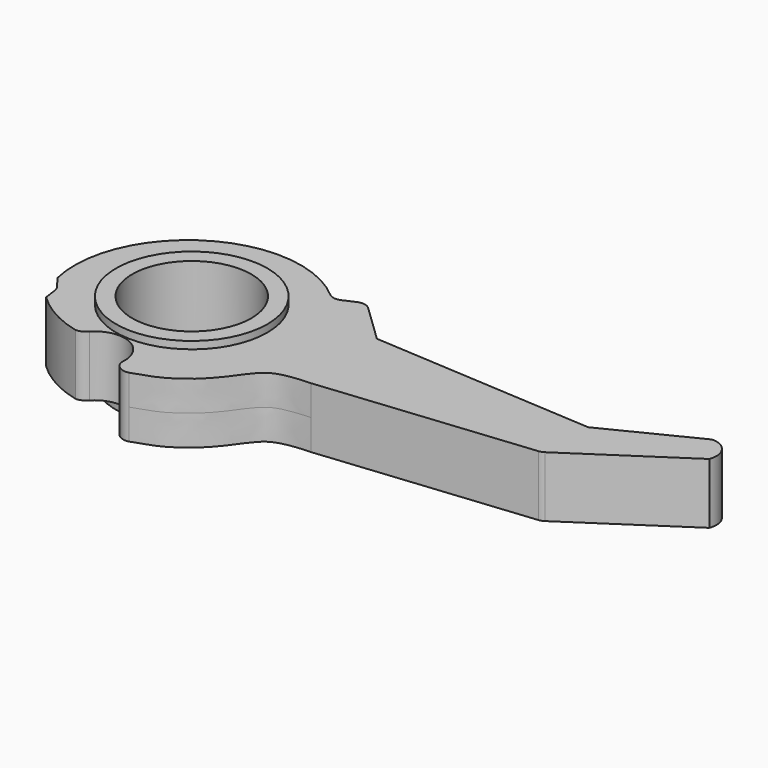
from build123d import *

# Parameters (mm, degrees)
F0_R     = 7.9
F1_DEPTH = 4.02
F2_R     = 10.03
F2_R_2   = 7.9
F3_DEPTH = 5
F4_R     = 1.524


with BuildPart() as f1:
    # F0 (on Top) → F1 (new body, symmetric)
    with BuildSketch(Plane.XY):
        with BuildLine():
            Line((46.1461601803, 4.9444199044), (16.6679395434, 6.772526574))
            Line((16.6679395434, 6.772526574), (10.8789355268, 12.3330182403))
            Line((10.8789355268, 12.3330182403), (7.4512350625, 10.8095955786))
            ThreePointArc((7.4512350625, 10.8095955786), (-10.3629347072, 13.2103242145), (-17.6852336109, -3.2058897622))
            Line((-17.6852336109, -3.2058897622), (-16.1899196828, -5.1818019859))
            Line((-16.1899196828, -5.1818019859), (-15.8845459898, -7.3533461493))
            ThreePointArc((-15.8845459898, -7.3533461493), (-12.6610311769, -9.7318403738), (-8.9288197387, -11.1874777966))
            ThreePointArc((-8.9288197387, -11.1874777966), (-8.17872411, -11.0156404916), (-7.5716043744, -10.5428010492))
            ThreePointArc((-7.5716043744, -10.5428010492), (-3.0198455719, -9.6773974333), (-0.6885354025, -13.6814484455))
            ThreePointArc((-0.6885354025, -13.6814484455), (-0.0064651636, -14.9365604515), (1.3988035828, -15.1929697119))
            add(Edge.make_bspline(
                [(1.3988035828, -15.1929697119), (2.268737628, -14.9110562135), (3.968289553, -14.360236217), (6.0326052215, -13.2728896797), (8.2551576398, -11.498992535), (10.0987298539, -9.2692275408), (11.6138570475, -7.0035918777), (13.3410886509, -5.5985693686), (16.1056359582, -5.3166150456), (17.57795468, -5.2708741645)],
                knots=[0, 0, 0, 0, 0.1403793354, 0.2707223402, 0.413910691, 0.5609255525, 0.7002489917, 0.8244285886, 1, 1, 1, 1], degree=3))
            Line((17.57795468, -5.2708741645), (45.839598026, -2.4268767753))
            Line((45.839598026, -2.4268767753), (60.3782066509, 7.2202376408))
            ThreePointArc((60.3782066509, 7.2202376408), (60.0804354266, 9.6791863318), (57.8765136264, 10.8095955786))
            Line((57.8765136264, 10.8095955786), (46.1461601803, 4.9444199044))
        make_face()
        with Locations((-3.0745326542, 0.769972596)):
            Circle(F0_R, mode=Mode.SUBTRACT)
    extrude(amount=F1_DEPTH, both=True)

    # F2 (on Top) → F3 (join, symmetric)
    with BuildSketch(Plane.XY):
        with Locations((-3.0745326542, 0.769972596)):
            Circle(F2_R)
        with Locations((-3.0745326542, 0.769972596)):
            Circle(F2_R_2, mode=Mode.SUBTRACT)
    extrude(amount=F3_DEPTH, both=True)

    # F4
    f4_edges = [f1.edges().sort_by_distance(p)[0] for p in [
        (-16.18992, -5.181802, 0),
        (7.451235, 10.809596, 0),
        (10.878936, 12.333018, 0),
        (45.839598, -2.426877, 0),
    ]]
    fillet(f4_edges, radius=F4_R)


solid = f1.part
